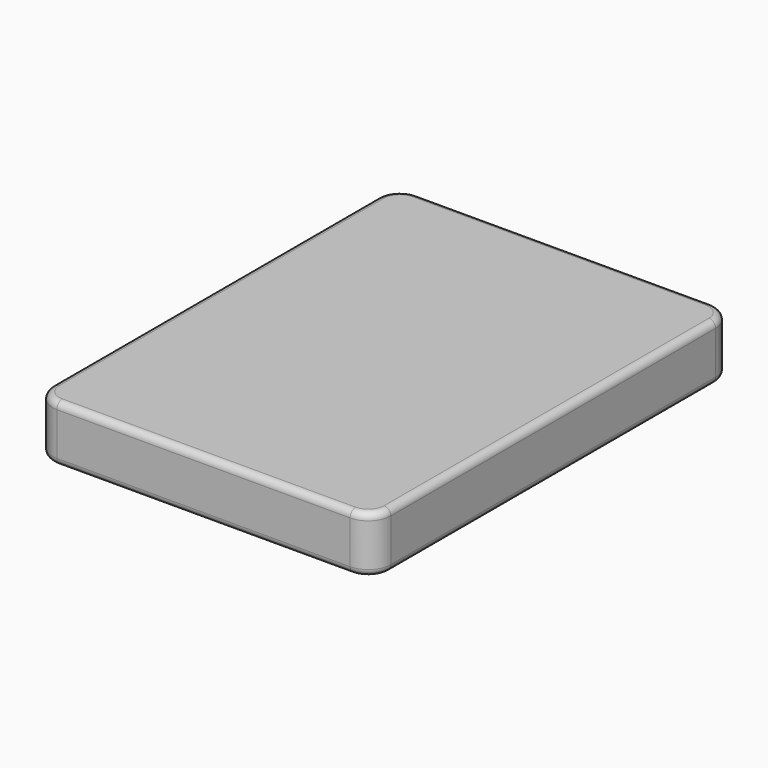
from build123d import *

# Parameters (mm, degrees)
F1_DEPTH = 250
F2_R     = 30


with BuildPart() as f1:
    # F0 (on Top) → F1 (new body)
    with BuildSketch(Plane.XY):
        with BuildLine():
            ThreePointArc((0, 100), (29.289322, 29.289322), (100, 0))
            Line((100, 0), (1400, 0))
            ThreePointArc((1400, 0), (1470.710678, 29.289322), (1500, 100))
            Line((1500, 100), (1500, 1900))
            ThreePointArc((1500, 1900), (1470.710678, 1970.710678), (1400, 2000))
            Line((1400, 2000), (100, 2000))
            ThreePointArc((100, 2000), (29.289322, 1970.710678), (0, 1900))
            Line((0, 1900), (0, 100))
        make_face()
    extrude(amount=F1_DEPTH)

    # F2
    f2_edges = [f1.edges().sort_by_distance(p)[0] for p in [
        (0, 1000, 250),
        (29.289322, 29.289322, 250),
        (750, 0, 250),
        (1470.710678, 29.289322, 250),
        (1500, 1000, 250),
        (1470.710678, 1970.710678, 250),
        (750, 2000, 250),
        (29.289322, 1970.710678, 250),
        (0, 1000, 0),
        (29.289322, 29.289322, 0),
        (750, 0, 0),
        (1470.710678, 29.289322, 0),
        (1500, 1000, 0),
        (1470.710678, 1970.710678, 0),
        (750, 2000, 0),
        (29.289322, 1970.710678, 0),
    ]]
    fillet(f2_edges, radius=F2_R)


solid = f1.part
